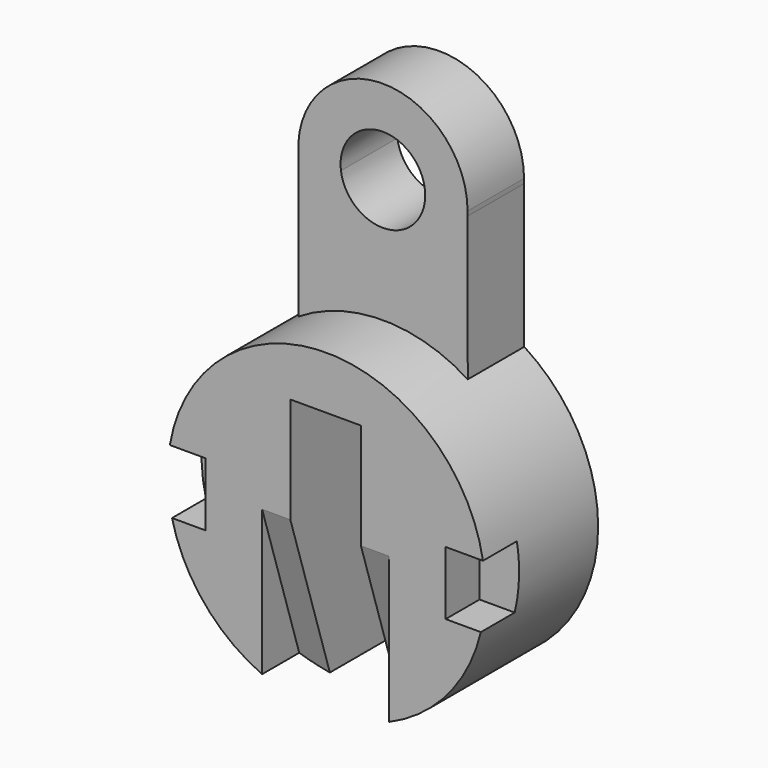
from build123d import *

# Parameters (mm, degrees)
F0_R      = 22.5
F1_DEPTH  = 20
F2_W      = 2.5675058744
F2_H      = 9
F3_DEPTH  = 6
F5_DEPTH  = 17
F7_DEPTH  = 4
F9_DEPTH  = 4
F11_DEPTH = 10


with BuildPart() as f1:
    # F0 (on Front) → F1 (new body)
    with BuildSketch(Plane.XZ):
        Circle(F0_R)
    extrude(amount=F1_DEPTH)

    # F2 (on face) → F3 (cut)
    with BuildSketch(Plane.XZ.offset(20)):
        with BuildLine():
            Line((-19.6791486824, 3.7585074455), (-22.183859488, 3.7585074455))
            ThreePointArc((-22.183859488, 3.7585074455), (-22.4872686861, -0.7568005275), (-21.8809678899, -5.2414925545))
            Line((-21.8809678899, -5.2414925545), (-19.6791486824, -5.2414925545))
            Line((-19.6791486824, -5.2414925545), (-19.6791486824, 3.7585074455))
        make_face()
        with Locations((-18.3953957452, -0.7414925545)):
            Rectangle(F2_W, F2_H)
        with BuildLine():
            ThreePointArc((22.5, 0), (22.42082557, 1.885889912), (22.183859488, 3.7585074455))
            Line((22.183859488, 3.7585074455), (16.888357192, 3.7585074455))
            Line((16.888357192, 3.7585074455), (16.888357192, -5.2414925545))
            Line((16.888357192, -5.2414925545), (21.8809678899, -5.2414925545))
            ThreePointArc((21.8809678899, -5.2414925545), (22.3447060567, -2.638960257), (22.5, 0))
        make_face()
    extrude(amount=-F3_DEPTH, mode=Mode.SUBTRACT)

    # F4 (on face) → F5 (cut)
    with BuildSketch(Plane.XZ.offset(20)):
        with BuildLine():
            ThreePointArc((-5.111642808, -21.9116660207), (-0.1145059859, -22.4997086288), (4.888357192, -21.962558229))
            Line((4.888357192, -21.962558229), (4.888357192, 15))
            Line((4.888357192, 15), (-5.111642808, 15))
            Line((-5.111642808, 15), (-5.111642808, -21.9116660207))
        make_face()
    extrude(amount=-F5_DEPTH, mode=Mode.SUBTRACT)

    # F6 (on face) → F7 (cut)
    with BuildSketch(Plane(origin=(4.888357192, 0, 0), x_dir=(0, -1, 0), z_dir=(-1, 0, 0))):
        Polygon((20, 0), (13, -21.962558229), (20, -21.962558229), align=None)
    extrude(amount=-F7_DEPTH, mode=Mode.SUBTRACT)

    # F8 (on face) → F9 (cut)
    with BuildSketch(Plane.YZ.offset(-5.111642808)):
        Polygon((-20, -21.9116660207), (-13, -21.9116660207), (-20, 0), align=None)
    extrude(amount=-F9_DEPTH, mode=Mode.SUBTRACT)

    # F10 (on Front) → F11 (join)
    with BuildSketch(Plane.XZ):
        with BuildLine():
            ThreePointArc((11.9820211506, 39.3433652862), (0.0967969112, 28.0003904081), (-11.9698688592, 39.1501532526))
            Line((-11.9698688592, 39.1501532526), (-11.9698688592, 18.8409157593))
            Line((-11.9698688592, 18.8409157593), (12.0301311408, 18.8409157593))
            Line((12.0301311408, 18.8409157593), (11.9820211506, 39.3433652862))
        make_face()
        with BuildLine():
            ThreePointArc((5.958410645, 39.2947747978), (0.0483984556, 34.0001952041), (-5.9462583536, 39.1987437411))
            Line((-5.9462583536, 39.1987437411), (-11.9698688592, 39.1501532526))
            ThreePointArc((-11.9698688592, 39.1501532526), (0.0967969112, 28.0003904081), (11.9820211506, 39.3433652862))
            Line((11.9820211506, 39.3433652862), (5.958410645, 39.2947747978))
        make_face()
        with BuildLine():
            ThreePointArc((-5.9462583536, 39.1987437411), (-0.4015282546, 45.9865495121), (6, 40))
            ThreePointArc((6, 40), (5.9895936369, 39.6467747672), (5.958410645, 39.2947747978))
            Line((5.958410645, 39.2947747978), (11.9820211506, 39.3433652862))
            ThreePointArc((11.9820211506, 39.3433652862), (11.9955044456, 39.6715595996), (12, 40))
            ThreePointArc((12, 40), (-0.4251903631, 51.992464849), (-11.9698688592, 39.1501532526))
            Line((-11.9698688592, 39.1501532526), (-5.9462583536, 39.1987437411))
        make_face()
    extrude(amount=F11_DEPTH)


solid = f1.part
